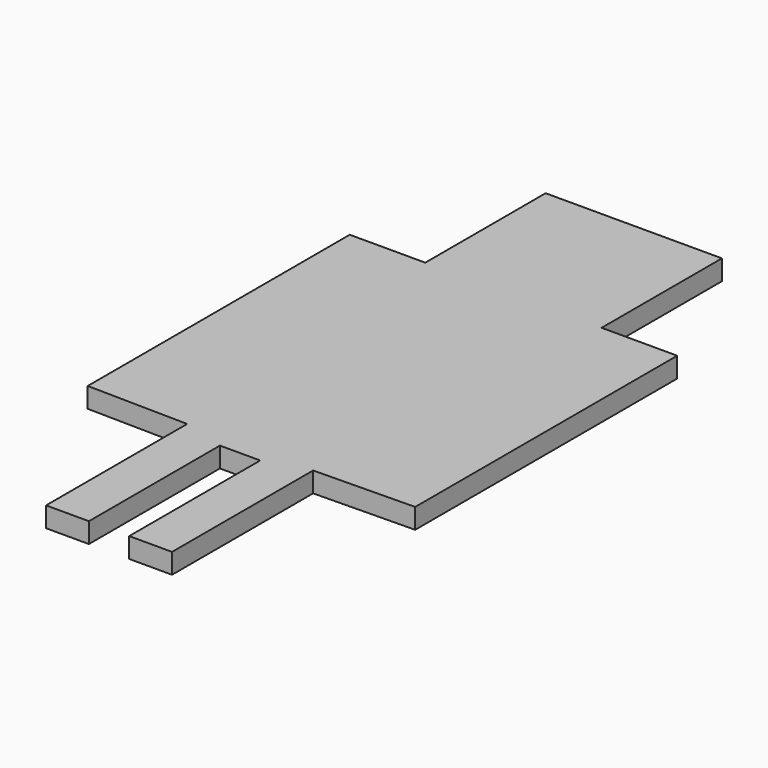
from build123d import *

# Parameters (mm, degrees)
F1_DEPTH = 5.08


with BuildPart() as f1:
    # F0 (on Top) → F1 (new body)
    with BuildSketch(Plane.XY):
        Polygon((22.780209, 50.409202), (-21.662882, 50.409202), (-21.662882, 12.503264), (-40.712882, 12.503264), (-40.712882, -70.046736), (-15.316335, -70.465585), (-15.316335, -114.915585), (-4.521335, -114.915585), (-4.521335, -73.640585), (5.638665, -73.640585), (5.638665, -114.915585), (16.433665, -114.915585), (16.433665, -70.465699), (41.830209, -70.046736), (41.830209, 12.503264), (22.780209, 12.503264), align=None)
    extrude(amount=F1_DEPTH)


solid = f1.part
